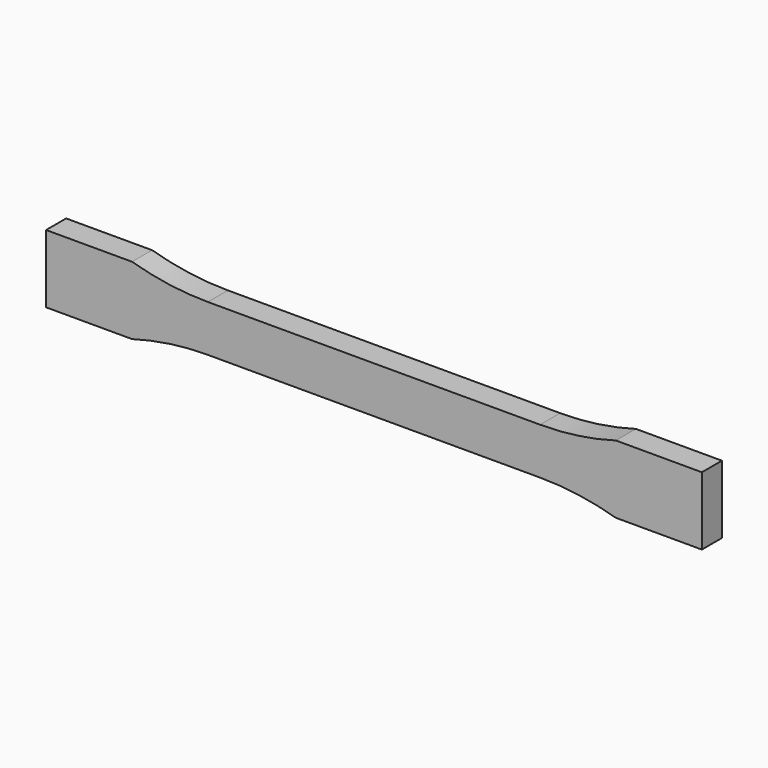
from build123d import *

# Parameters (mm, degrees)
F1_DEPTH = 7


with BuildPart() as f1:
    # F0 (on Front) → F1 (new body)
    with BuildSketch(Plane.XZ):
        with BuildLine():
            Line((46.357625, 6.5), (0, 6.5))
            Line((0, 6.5), (-46.357625, 6.5))
            ThreePointArc((-46.357625, 6.5), (-57.034704, 7.253738), (-67.5, 9.5))
            Line((-67.5, 9.5), (-91.5, 9.5))
            Line((-91.5, 9.5), (-91.5, -9.5))
            Line((-91.5, -9.5), (-67.5, -9.5))
            ThreePointArc((-67.5, -9.5), (-57.034704, -7.253738), (-46.357625, -6.5))
            Line((-46.357625, -6.5), (0, -6.5))
            Line((0, -6.5), (46.357625, -6.5))
            ThreePointArc((46.357625, -6.5), (57.034704, -7.253738), (67.5, -9.5))
            Line((67.5, -9.5), (91.5, -9.5))
            Line((91.5, -9.5), (91.5, 9.5))
            Line((91.5, 9.5), (67.5, 9.5))
            ThreePointArc((67.5, 9.5), (57.034704, 7.253738), (46.357625, 6.5))
        make_face()
    extrude(amount=F1_DEPTH)


solid = f1.part
